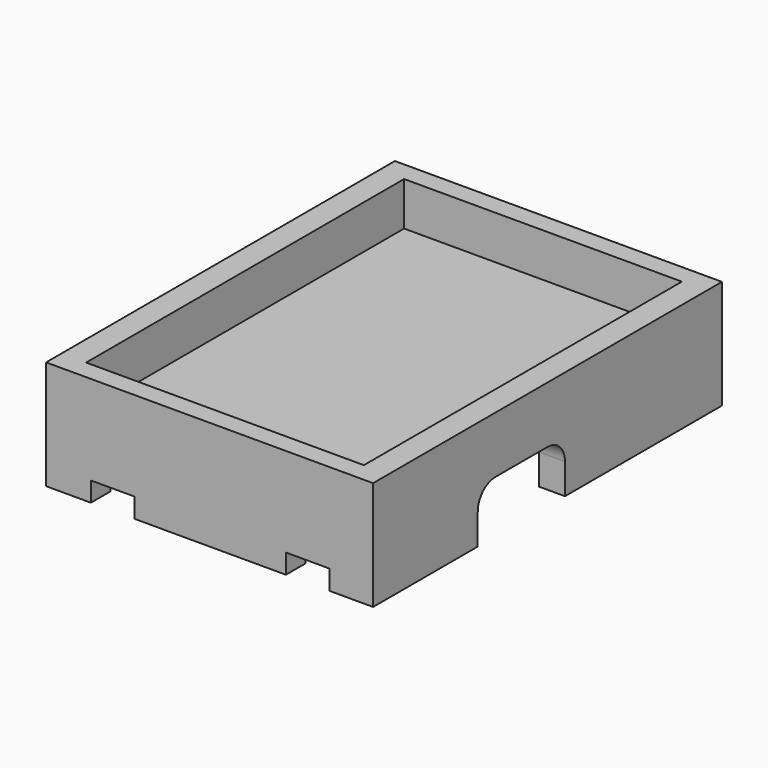
from build123d import *

# Parameters (mm, degrees)
F0_W     = 200
F0_H     = 50
F1_DEPTH = 75
F2_W     = 127.414032
F2_H     = 182.310182
F3_DEPTH = 20
F5_W     = 126.305566
F5_H     = 177.75355
F6_DEPTH = 27
F4_W     = 20
F4_H     = 9
F7_DEPTH = 25
F9_DEPTH = 160


with BuildPart() as f1:
    # F0 (on Right) → F1 (new body, symmetric)
    with BuildSketch(Plane.YZ):
        with Locations((100, 25)):
            Rectangle(F0_W, F0_H)
    extrude(amount=F1_DEPTH, both=True)

    # F2 (on face) → F3 (cut)
    with BuildSketch(Plane.XY.offset(50)):
        with Locations((0, 100)):
            Rectangle(F2_W, F2_H)
    extrude(amount=-F3_DEPTH, mode=Mode.SUBTRACT)

    # F5 (on face) → F6 (cut)
    with BuildSketch(Plane(origin=(0, 0, 0), x_dir=(1, 0, 0), z_dir=(0, 0, -1))):
        with Locations((0, -100)):
            Rectangle(F5_W, F5_H)
    extrude(amount=-F6_DEPTH, mode=Mode.SUBTRACT)

    # F4 (on face) → F7 (cut)
    with BuildSketch(Plane.XZ):
        with Locations((45, 4.5)):
            Rectangle(F4_W, F4_H)
        with Locations((-44.462749, 4.5)):
            Rectangle(F4_W, F4_H)
    extrude(amount=-F7_DEPTH, mode=Mode.SUBTRACT)

    # F8 (on face) → F9 (cut)
    with BuildSketch(Plane.YZ.offset(75)):
        with BuildLine():
            Line((60, 14), (60, 0))
            Line((60, 0), (110, 0))
            Line((110, 0), (110, 14))
            ThreePointArc((110, 14), (107.071068, 21.071068), (100, 24))
            Line((100, 24), (70, 24))
            ThreePointArc((70, 24), (62.928932, 21.071068), (60, 14))
        make_face()
    extrude(amount=-F9_DEPTH, mode=Mode.SUBTRACT)


solid = f1.part
